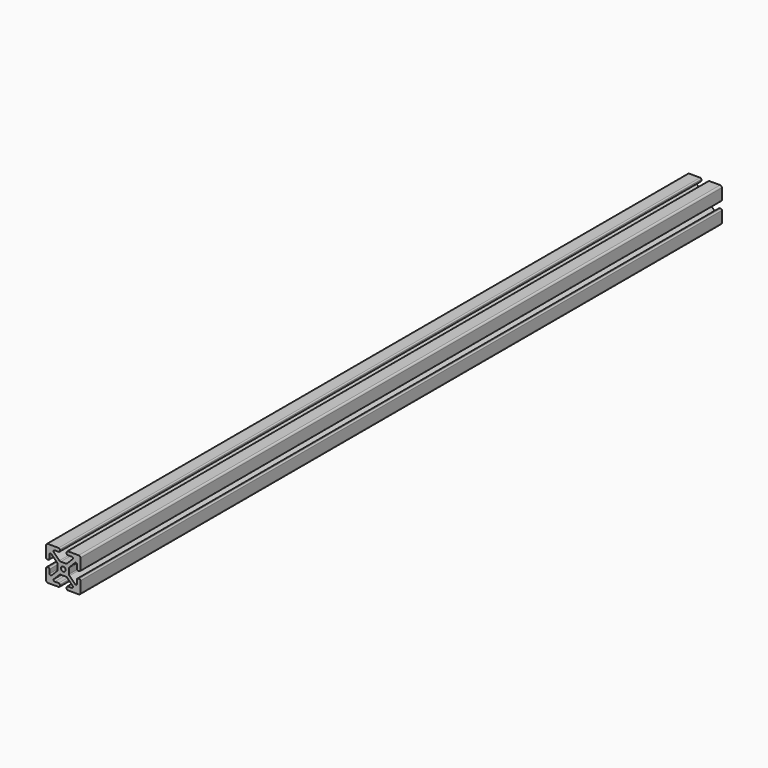
from build123d import *

# Parameters (mm, degrees)
F0_R     = 2
F1_DEPTH = 700


with BuildPart() as f1:
    # F0 (on Front) → F1 (new body)
    with BuildSketch(Plane.XZ):
        with BuildLine():
            ThreePointArc((15, 13.5), (14.56066, 14.56066), (13.5, 15))
            Line((13.5, 15), (4, 15))
            ThreePointArc((4, 15), (3.292893, 14.707107), (3, 14))
            Line((3, 14), (3, 13))
            ThreePointArc((3, 13), (3.292893, 12.292893), (4, 12))
            Line((4, 12), (7.464466, 12))
            ThreePointArc((7.464466, 12), (8.388346, 11.382683), (8.171573, 10.292893))
            Line((8.171573, 10.292893), (3.318019, 5.43934))
            ThreePointArc((3.318019, 5.43934), (2.831384, 5.114181), (2.257359, 5))
            Line((2.257359, 5), (-2.257359, 5))
            ThreePointArc((-2.257359, 5), (-2.831384, 5.114181), (-3.318019, 5.43934))
            Line((-3.318019, 5.43934), (-8.171573, 10.292893))
            ThreePointArc((-8.171573, 10.292893), (-8.388346, 11.382683), (-7.464466, 12))
            Line((-7.464466, 12), (-4, 12))
            ThreePointArc((-4, 12), (-3.292893, 12.292893), (-3, 13))
            Line((-3, 13), (-3, 14))
            ThreePointArc((-3, 14), (-3.292893, 14.707107), (-4, 15))
            Line((-4, 15), (-13.5, 15))
            ThreePointArc((-13.5, 15), (-14.56066, 14.56066), (-15, 13.5))
            Line((-15, 13.5), (-15, 4))
            ThreePointArc((-15, 4), (-14.707107, 3.292893), (-14, 3))
            Line((-14, 3), (-13, 3))
            ThreePointArc((-13, 3), (-12.292893, 3.292893), (-12, 4))
            Line((-12, 4), (-12, 7.464466))
            ThreePointArc((-12, 7.464466), (-11.382683, 8.388346), (-10.292893, 8.171573))
            Line((-10.292893, 8.171573), (-5, 2.87868))
            Line((-5, 2.87868), (-5, -2.257359))
            ThreePointArc((-5, -2.257359), (-5.114181, -2.831384), (-5.43934, -3.318019))
            Line((-5.43934, -3.318019), (-10.292893, -8.171573))
            ThreePointArc((-10.292893, -8.171573), (-11.382683, -8.388346), (-12, -7.464466))
            Line((-12, -7.464466), (-12, -4))
            ThreePointArc((-12, -4), (-12.292893, -3.292893), (-13, -3))
            Line((-13, -3), (-14, -3))
            ThreePointArc((-14, -3), (-14.707107, -3.292893), (-15, -4))
            Line((-15, -4), (-15, -13.5))
            ThreePointArc((-15, -13.5), (-14.56066, -14.56066), (-13.5, -15))
            Line((-13.5, -15), (-4, -15))
            ThreePointArc((-4, -15), (-3.292893, -14.707107), (-3, -14))
            Line((-3, -14), (-3, -13))
            ThreePointArc((-3, -13), (-3.292893, -12.292893), (-4, -12))
            Line((-4, -12), (-7.464466, -12))
            ThreePointArc((-7.464466, -12), (-8.388346, -11.382683), (-8.171573, -10.292893))
            Line((-8.171573, -10.292893), (-3.318019, -5.43934))
            ThreePointArc((-3.318019, -5.43934), (-2.831384, -5.114181), (-2.257359, -5))
            Line((-2.257359, -5), (2.257359, -5))
            ThreePointArc((2.257359, -5), (2.831384, -5.114181), (3.318019, -5.43934))
            Line((3.318019, -5.43934), (8.171573, -10.292893))
            ThreePointArc((8.171573, -10.292893), (8.388346, -11.382683), (7.464466, -12))
            Line((7.464466, -12), (4, -12))
            ThreePointArc((4, -12), (3.292893, -12.292893), (3, -13))
            Line((3, -13), (3, -14))
            ThreePointArc((3, -14), (3.292893, -14.707107), (4, -15))
            Line((4, -15), (13.5, -15))
            ThreePointArc((13.5, -15), (14.56066, -14.56066), (15, -13.5))
            Line((15, -13.5), (15, -4))
            ThreePointArc((15, -4), (14.707107, -3.292893), (14, -3))
            Line((14, -3), (13, -3))
            ThreePointArc((13, -3), (12.292893, -3.292893), (12, -4))
            Line((12, -4), (12, -7.464466))
            ThreePointArc((12, -7.464466), (11.382683, -8.388346), (10.292893, -8.171573))
            Line((10.292893, -8.171573), (5.43934, -3.318019))
            ThreePointArc((5.43934, -3.318019), (5.114181, -2.831384), (5, -2.257359))
            Line((5, -2.257359), (5, 2.257359))
            ThreePointArc((5, 2.257359), (5.114181, 2.831384), (5.43934, 3.318019))
            Line((5.43934, 3.318019), (10.292893, 8.171573))
            ThreePointArc((10.292893, 8.171573), (11.382683, 8.388346), (12, 7.464466))
            Line((12, 7.464466), (12, 4))
            ThreePointArc((12, 4), (12.292893, 3.292893), (13, 3))
            Line((13, 3), (14, 3))
            ThreePointArc((14, 3), (14.707107, 3.292893), (15, 4))
            Line((15, 4), (15, 13.5))
        make_face()
        Circle(F0_R, mode=Mode.SUBTRACT)
    extrude(amount=-F1_DEPTH)


solid = f1.part
